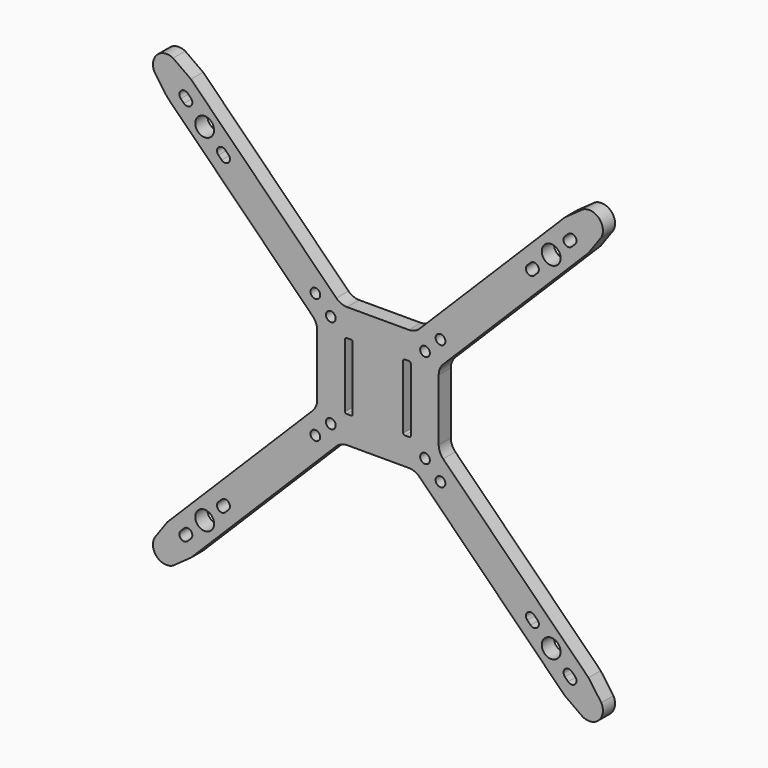
from build123d import *

# Parameters (mm, degrees)
F0_R     = 3.1
F0_R_2   = 1.6
F1_DEPTH = 5


with BuildPart() as f1:
    # F0 (on Front) → F1 (new body)
    with BuildSketch(Plane.XZ):
        with BuildLine():
            Line((10.150758, 20), (-10.150758, 20))
            ThreePointArc((-10.150758, 20), (-12.064175, 20.380602), (-13.686292, 21.464466))
            Line((-13.686292, 21.464466), (-61.509049, 69.287223))
            Line((-61.509049, 69.287223), (-67.386104, 73.484299))
            ThreePointArc((-67.386104, 73.484299), (-72.699434, 72.699434), (-73.484299, 67.386104))
            Line((-73.484299, 67.386104), (-69.287223, 61.509049))
            Line((-69.287223, 61.509049), (-21.464466, 13.686292))
            ThreePointArc((-21.464466, 13.686292), (-20.380602, 12.064175), (-20, 10.150758))
            Line((-20, 10.150758), (-20, -10.150758))
            ThreePointArc((-20, -10.150758), (-20.380602, -12.064175), (-21.464466, -13.686292))
            Line((-21.464466, -13.686292), (-69.287223, -61.509049))
            Line((-69.287223, -61.509049), (-73.484299, -67.386104))
            ThreePointArc((-73.484299, -67.386104), (-72.699434, -72.699434), (-67.386104, -73.484299))
            Line((-67.386104, -73.484299), (-61.509049, -69.287223))
            Line((-61.509049, -69.287223), (-13.686292, -21.464466))
            ThreePointArc((-13.686292, -21.464466), (-12.064175, -20.380602), (-10.150758, -20))
            Line((-10.150758, -20), (10.150758, -20))
            ThreePointArc((10.150758, -20), (12.064175, -20.380602), (13.686292, -21.464466))
            Line((13.686292, -21.464466), (61.509049, -69.287223))
            Line((61.509049, -69.287223), (67.386104, -73.484299))
            ThreePointArc((67.386104, -73.484299), (72.699434, -72.699434), (73.484299, -67.386104))
            Line((73.484299, -67.386104), (69.287223, -61.509049))
            Line((69.287223, -61.509049), (21.464466, -13.686292))
            ThreePointArc((21.464466, -13.686292), (20.380602, -12.064175), (20, -10.150758))
            Line((20, -10.150758), (20, 10.150758))
            ThreePointArc((20, 10.150758), (20.380602, 12.064175), (21.464466, 13.686292))
            Line((21.464466, 13.686292), (69.287223, 61.509049))
            Line((69.287223, 61.509049), (73.484299, 67.386104))
            ThreePointArc((73.484299, 67.386104), (72.699434, 72.699434), (67.386104, 73.484299))
            Line((67.386104, 73.484299), (61.509049, 69.287223))
            Line((61.509049, 69.287223), (13.686292, 21.464466))
            ThreePointArc((13.686292, 21.464466), (12.064175, 20.380602), (10.150758, 20))
        make_face()
        with BuildLine():
            ThreePointArc((-62.586144, -64.848885), (-64.848885, -64.848885), (-64.848885, -62.586144))
            Line((-64.848885, -62.586144), (-63.788225, -61.525483))
            ThreePointArc((-63.788225, -61.525483), (-61.525483, -61.525483), (-61.525483, -63.788225))
            Line((-61.525483, -63.788225), (-62.586144, -64.848885))
        make_face(mode=Mode.SUBTRACT)
        with Locations((-57, -57)):
            Circle(F0_R, mode=Mode.SUBTRACT)
        with BuildLine():
            ThreePointArc((-51.413856, -49.151115), (-49.151115, -49.151115), (-49.151115, -51.413856))
            Line((-49.151115, -51.413856), (-50.211775, -52.474517))
            ThreePointArc((-50.211775, -52.474517), (-52.474517, -52.474517), (-52.474517, -50.211775))
            Line((-52.474517, -50.211775), (-51.413856, -49.151115))
        make_face(mode=Mode.SUBTRACT)
        with Locations((-20.584001, -20.584001)):
            Circle(F0_R_2, mode=Mode.SUBTRACT)
        with Locations((-15.5, -15.5)):
            Circle(F0_R_2, mode=Mode.SUBTRACT)
        with BuildLine():
            ThreePointArc((64.848885, -62.586144), (64.848885, -64.848885), (62.586144, -64.848885))
            Line((62.586144, -64.848885), (61.525483, -63.788225))
            ThreePointArc((61.525483, -63.788225), (61.525483, -61.525483), (63.788225, -61.525483))
            Line((63.788225, -61.525483), (64.848885, -62.586144))
        make_face(mode=Mode.SUBTRACT)
        with Locations((57, -57)):
            Circle(F0_R, mode=Mode.SUBTRACT)
        with BuildLine():
            ThreePointArc((49.151115, -51.413856), (49.151115, -49.151115), (51.413856, -49.151115))
            Line((51.413856, -49.151115), (52.474517, -50.211775))
            ThreePointArc((52.474517, -50.211775), (52.474517, -52.474517), (50.211775, -52.474517))
            Line((50.211775, -52.474517), (49.151115, -51.413856))
        make_face(mode=Mode.SUBTRACT)
        with Locations((20.584001, -20.584001)):
            Circle(F0_R_2, mode=Mode.SUBTRACT)
        with Locations((15.5, -15.5)):
            Circle(F0_R_2, mode=Mode.SUBTRACT)
        with BuildLine():
            ThreePointArc((-10.80108, 10.5), (-10.654634, 10.853553), (-10.30108, 11))
            Line((-10.30108, 11), (-8.80108, 11))
            ThreePointArc((-8.80108, 11), (-8.447527, 10.853553), (-8.30108, 10.5))
            Line((-8.30108, 10.5), (-8.30108, -10.5))
            ThreePointArc((-8.30108, -10.5), (-8.447527, -10.853553), (-8.80108, -11))
            Line((-8.80108, -11), (-10.30108, -11))
            ThreePointArc((-10.30108, -11), (-10.654634, -10.853553), (-10.80108, -10.5))
            Line((-10.80108, -10.5), (-10.80108, 10.5))
        make_face(mode=Mode.SUBTRACT)
        with Locations((-15.5, 15.5)):
            Circle(F0_R_2, mode=Mode.SUBTRACT)
        with Locations((-20.584001, 20.584001)):
            Circle(F0_R_2, mode=Mode.SUBTRACT)
        with BuildLine():
            Line((-50.211775, 52.474517), (-49.151115, 51.413856))
            ThreePointArc((-49.151115, 51.413856), (-49.151115, 49.151115), (-51.413856, 49.151115))
            Line((-51.413856, 49.151115), (-52.474517, 50.211775))
            ThreePointArc((-52.474517, 50.211775), (-52.474517, 52.474517), (-50.211775, 52.474517))
        make_face(mode=Mode.SUBTRACT)
        with Locations((-57, 57)):
            Circle(F0_R, mode=Mode.SUBTRACT)
        with BuildLine():
            ThreePointArc((-64.848885, 62.586144), (-64.848885, 64.848885), (-62.586144, 64.848885))
            Line((-62.586144, 64.848885), (-61.525483, 63.788225))
            ThreePointArc((-61.525483, 63.788225), (-61.525483, 61.525483), (-63.788225, 61.525483))
            Line((-63.788225, 61.525483), (-64.848885, 62.586144))
        make_face(mode=Mode.SUBTRACT)
        with BuildLine():
            Line((10.80108, 10.5), (10.80108, -10.5))
            ThreePointArc((10.80108, -10.5), (10.654634, -10.853553), (10.30108, -11))
            Line((10.30108, -11), (8.80108, -11))
            ThreePointArc((8.80108, -11), (8.447527, -10.853553), (8.30108, -10.5))
            Line((8.30108, -10.5), (8.30108, 10.5))
            ThreePointArc((8.30108, 10.5), (8.447527, 10.853553), (8.80108, 11))
            Line((8.80108, 11), (10.30108, 11))
            ThreePointArc((10.30108, 11), (10.654634, 10.853553), (10.80108, 10.5))
        make_face(mode=Mode.SUBTRACT)
        with Locations((15.5, 15.5)):
            Circle(F0_R_2, mode=Mode.SUBTRACT)
        with Locations((20.584001, 20.584001)):
            Circle(F0_R_2, mode=Mode.SUBTRACT)
        with BuildLine():
            Line((52.474517, 50.211775), (51.413856, 49.151115))
            ThreePointArc((51.413856, 49.151115), (49.151115, 49.151115), (49.151115, 51.413856))
            Line((49.151115, 51.413856), (50.211775, 52.474517))
            ThreePointArc((50.211775, 52.474517), (52.474517, 52.474517), (52.474517, 50.211775))
        make_face(mode=Mode.SUBTRACT)
        with Locations((57, 57)):
            Circle(F0_R, mode=Mode.SUBTRACT)
        with BuildLine():
            ThreePointArc((62.586144, 64.848885), (64.848885, 64.848885), (64.848885, 62.586144))
            Line((64.848885, 62.586144), (63.788225, 61.525483))
            ThreePointArc((63.788225, 61.525483), (61.525483, 61.525483), (61.525483, 63.788225))
            Line((61.525483, 63.788225), (62.586144, 64.848885))
        make_face(mode=Mode.SUBTRACT)
    extrude(amount=F1_DEPTH)


solid = f1.part
